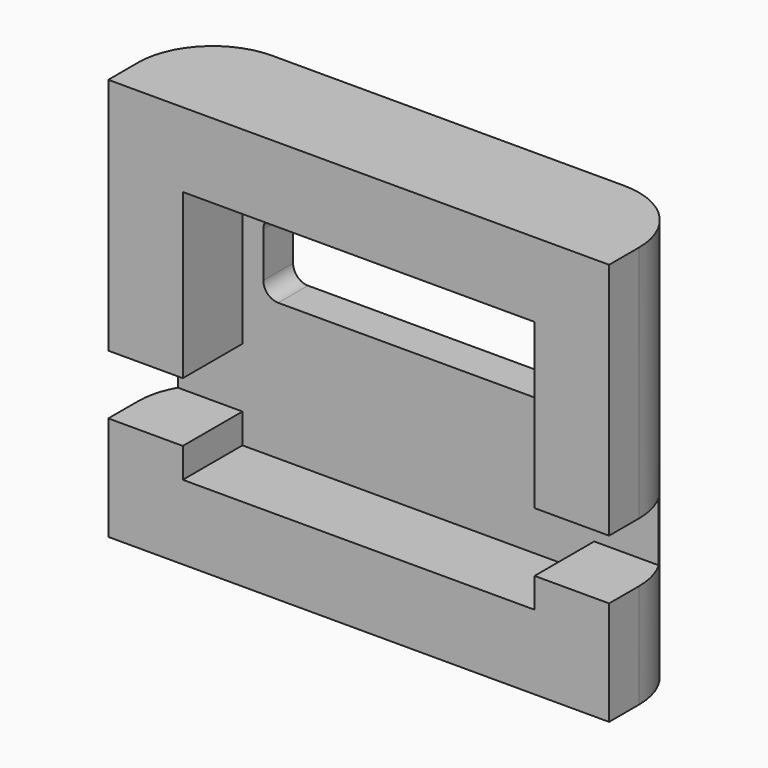
from build123d import *

# Parameters (mm, degrees)
F1_DEPTH = 34.29
F2_W     = 29.972
F2_H     = 6.35
F3_DEPTH = 6.35
F2_W_2   = 6.35
F2_H_2   = 5.08
F2_W_3   = 36.322
F4_DEPTH = 6.35
F5_DEPTH = 9.526


with BuildPart() as f1:
    # F0 (on Top) → F1 (new body)
    with BuildSketch(Plane.XY):
        with BuildLine():
            Line((-21.336, -3.175), (-14.986, -3.175))
            Line((-14.986, -3.175), (-14.986, 3.175))
            Line((-14.986, 3.175), (14.986, 3.175))
            Line((14.986, 3.175), (14.986, -3.175))
            Line((14.986, -3.175), (21.336, -3.175))
            Line((21.336, -3.175), (21.336, 0))
            ThreePointArc((21.336, 0), (19.476128, 4.490128), (14.986, 6.35))
            Line((14.986, 6.35), (-14.986, 6.35))
            ThreePointArc((-14.986, 6.35), (-19.476128, 4.490128), (-21.336, 0))
            Line((-21.336, 0), (-21.336, -3.175))
        make_face()
    extrude(amount=F1_DEPTH)

    # F2 (on face) → F3 (join, through all)
    with BuildSketch(Plane.XZ.offset(3.175)):
        with Locations((0, 3.175)):
            Rectangle(F2_W, F2_H)
        with Locations((0, 31.115)):
            Rectangle(F2_W, F2_H)
    extrude(amount=-F3_DEPTH)

    # F2 (on face) → F4 (cut, through all)
    with BuildSketch(Plane.XZ.offset(3.175)):
        with Locations((-18.161, 11.43)):
            Rectangle(F2_W_2, F2_H_2)
        with Locations((3.175, 11.43)):
            Rectangle(F2_W_3, F2_H_2)
    extrude(amount=-F4_DEPTH, mode=Mode.SUBTRACT)

    # F2 (on face) → F5 (cut, through all)
    with BuildSketch(Plane.XZ.offset(3.175)):
        with BuildLine():
            ThreePointArc((-13.208, 19.304), (-12.836026, 18.405974), (-11.938, 18.034))
            Line((-11.938, 18.034), (0, 18.034))
            Line((0, 18.034), (11.938, 18.034))
            ThreePointArc((11.938, 18.034), (12.836026, 18.405974), (13.208, 19.304))
            Line((13.208, 19.304), (13.208, 23.114))
            ThreePointArc((13.208, 23.114), (12.836026, 24.012026), (11.938, 24.384))
            Line((11.938, 24.384), (-11.938, 24.384))
            ThreePointArc((-11.938, 24.384), (-12.836026, 24.012026), (-13.208, 23.114))
            Line((-13.208, 23.114), (-13.208, 19.304))
        make_face()
    extrude(amount=-F5_DEPTH, mode=Mode.SUBTRACT)


solid = f1.part
